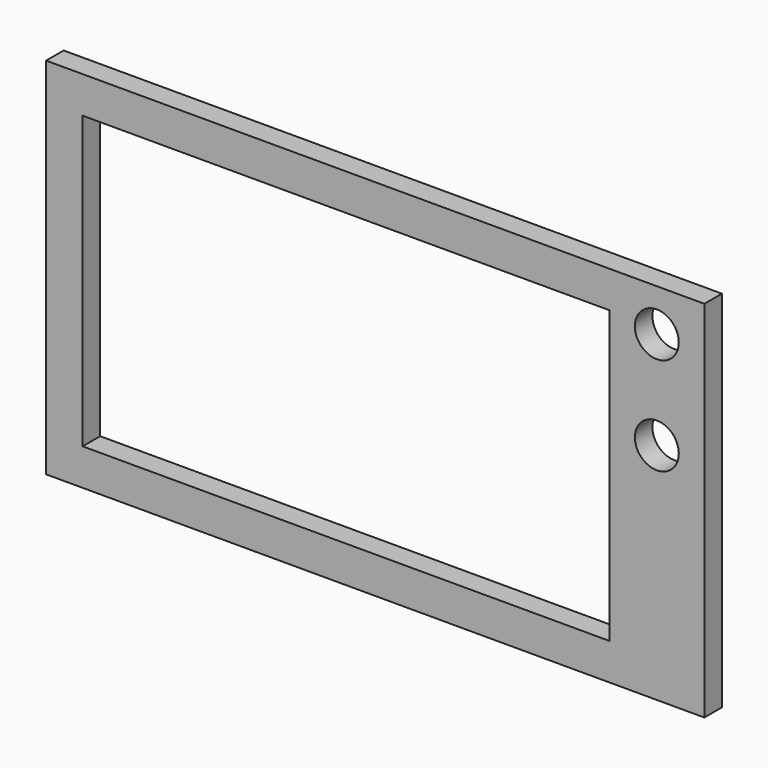
from build123d import *

# Parameters (mm, degrees)
F0_W     = 90
F0_H     = 49.79875
F0_W_2   = 72
F0_H_2   = 39.79875
F0_R     = 3
F1_DEPTH = 3


with BuildPart() as f1:
    # F0 (on Front) → F1 (new body)
    with BuildSketch(Plane.XZ):
        with Locations((0, -0.000125)):
            Rectangle(F0_W, F0_H)
        with Locations((-4, -0.000125)):
            Rectangle(F0_W_2, F0_H_2, mode=Mode.SUBTRACT)
        with Locations((38.5, 5.741427)):
            Circle(F0_R, mode=Mode.SUBTRACT)
        with Locations((38.5, 19.10959)):
            Circle(F0_R, mode=Mode.SUBTRACT)
    extrude(amount=F1_DEPTH)


solid = f1.part
